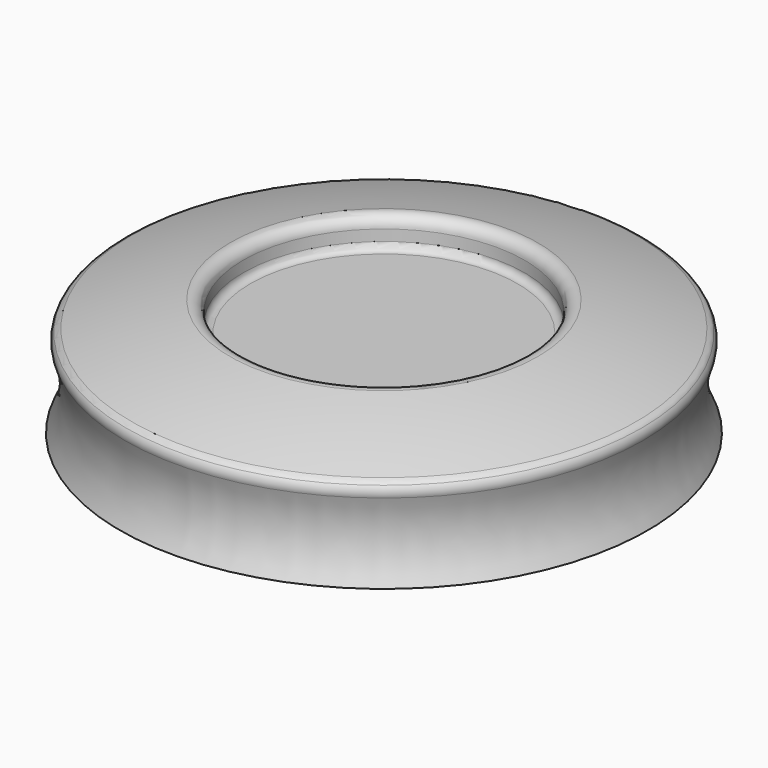
from build123d import *


with BuildPart() as f1:
    # F0 (on Front) → F1 (revolve)
    with BuildSketch(Plane.XZ):
        with BuildLine():
            Line((-19.05, 0), (0, 0))
            Line((0, 0), (0, 6.35))
            Line((0, 6.35), (-9.638313, 6.35))
            ThreePointArc((-9.638313, 6.35), (-10.007201, 6.502799), (-10.16, 6.871687))
            Line((-10.16, 6.871687), (-10.16, 7.67267))
            ThreePointArc((-10.16, 7.67267), (-10.452527, 8.293544), (-11.117546, 8.463267))
            ThreePointArc((-11.117546, 8.463267), (-14.691922, 7.657891), (-18.209131, 6.631224))
            ThreePointArc((-18.209131, 6.631224), (-18.426498, 6.520989), (-18.600173, 6.35))
            ThreePointArc((-18.600173, 6.35), (-18.749447, 5.984448), (-18.704121, 5.592202))
            ThreePointArc((-18.704121, 5.592202), (-18.269118, 2.7585), (-19.05, 0))
        make_face()
    revolve(axis=Axis((0, 0, 3.175), (0, 0, 1)))


solid = f1.part
